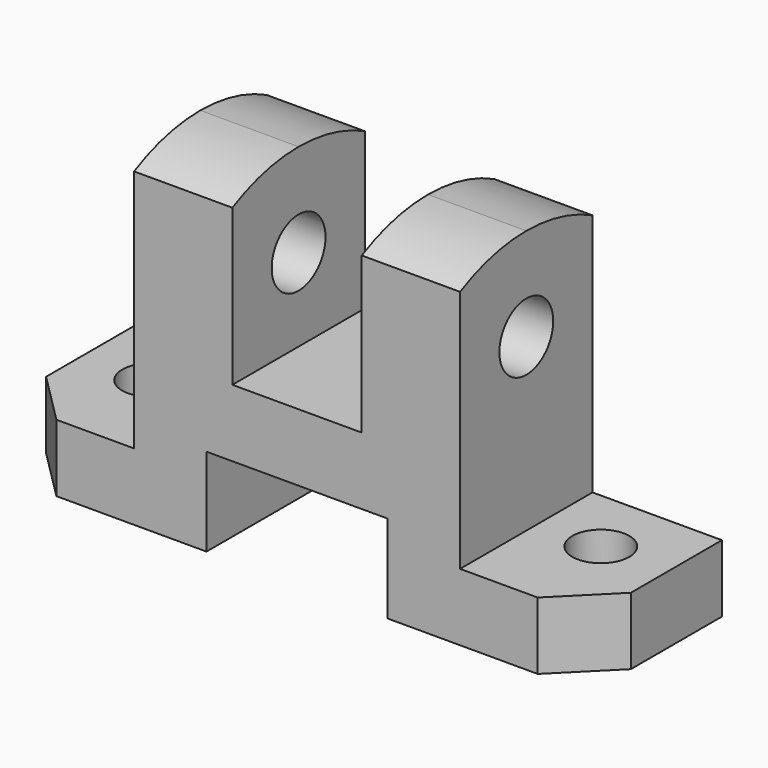
from build123d import *

# Parameters (mm, degrees)
F1_DEPTH = 16
F2_SIZE  = 10
F3_R     = 5.5
F4_DEPTH = 13.001
F5_R     = 6.5
F6_DEPTH = 88.001


with BuildPart() as f1:
    # F0 (on Front) → F1 (new body, symmetric)
    with BuildSketch(Plane.XZ):
        Polygon((-17.5, 17), (0, 17), (0, 30), (-12.5, 30), (-12.5, 64), (-31.5, 64), (-31.5, 13), (-56.5, 13), (-56.5, 0), (-17.5, 0), align=None)
        Polygon((0, 30), (0, 17), (17.5, 17), (17.5, 0), (56.5, 0), (56.5, 13), (31.5, 13), (31.5, 64), (12.5, 64), (12.5, 30), align=None)
    extrude(amount=F1_DEPTH, both=True)

    # F2
    f2_edges = [f1.edges().sort_by_distance(p)[0] for p in [
        (-56.5, -16, 6.5),
        (56.5, -16, 6.5),
    ]]
    chamfer(f2_edges, length=F2_SIZE)

    # F3 (on face) → F4 (cut, through all)
    with BuildSketch(Plane.XY.offset(13)):
        with Locations((43.5, 3)):
            Circle(F3_R)
        with Locations((-43.5, 3)):
            Circle(F3_R)
    extrude(amount=-F4_DEPTH, mode=Mode.SUBTRACT)

    # F5 (on face) → F6 (cut, through all)
    with BuildSketch(Plane.YZ.offset(31.5)):
        with BuildLine():
            ThreePointArc((-16, 60.128765), (-8.230833, 63.018427), (0, 64))
            Line((0, 64), (-16, 64))
            Line((-16, 64), (-16, 60.128765))
        make_face()
        with BuildLine():
            ThreePointArc((0, 64), (8.230833, 63.018427), (16, 60.128765))
            Line((16, 60.128765), (16, 64))
            Line((16, 64), (0, 64))
        make_face()
        with Locations((0, 46)):
            Circle(F5_R)
    extrude(amount=-F6_DEPTH, mode=Mode.SUBTRACT)


solid = f1.part
